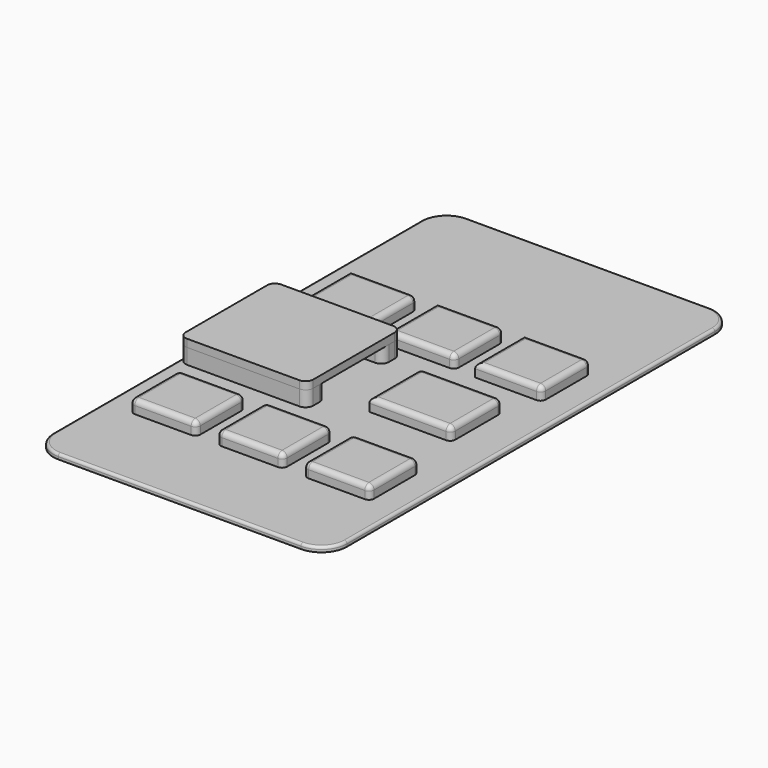
from build123d import *

# Parameters (mm, degrees)
F0_W      = 57.5
F0_H      = 100
F1_DEPTH  = 1
F3_DEPTH  = 2.5
F4_R      = 1
F4_2_R    = 1
F4_3_R    = 1
F4_4_R    = 1
F4_5_R    = 1
F4_6_R    = 1
F4_7_R    = 1
F4_8_R    = 1
F5_R      = 5
F6_R      = 0.5
F7_DEPTH  = 25
F9_DEPTH  = 3
F11_DEPTH = 1.5


with BuildPart() as f1:
    # F0 (on Top) → F1 (new body)
    with BuildSketch(Plane.XY):
        Rectangle(F0_W, F0_H)
    extrude(amount=F1_DEPTH)

    # F5
    f5_edges = [f1.edges().sort_by_distance(p)[0] for p in [
        (-28.75, 50, 0.5),
        (28.75, 50, 0.5),
        (28.75, -50, 0.5),
        (-28.75, -50, 0.5),
    ]]
    fillet(f5_edges, radius=F5_R)

    # F6
    f6_edges = [f1.edges().sort_by_distance(p)[0] for p in [
        (0, -50, 1),
        (-27.285534, -48.535534, 1),
        (27.285534, -48.535534, 1),
        (-28.75, 0, 1),
        (28.75, 0, 1),
        (-27.285534, 48.535534, 1),
        (27.285534, 48.535534, 1),
        (0, 50, 1),
    ]]
    fillet(f6_edges, radius=F6_R)

    # F2 (on face) → F7 (cut)
    with BuildSketch(Plane.XY.offset(1)):
        with BuildLine():
            Line((-22.75, -9.5), (-8.75, -9.5))
            ThreePointArc((-8.75, -9.5), (-8.0428932188, -9.2071067812), (-7.75, -8.5))
            Line((-7.75, -8.5), (-7.75, 2))
            ThreePointArc((-7.75, 2), (-8.0428932188, 2.7071067812), (-8.75, 3))
            Line((-8.75, 3), (-22.75, 3))
            ThreePointArc((-22.75, 3), (-23.4571067812, 2.7071067812), (-23.75, 2))
            Line((-23.75, 2), (-23.75, -8.5))
            ThreePointArc((-23.75, -8.5), (-23.4571067812, -9.2071067812), (-22.75, -9.5))
        make_face()
        with BuildLine():
            Line((-23.75, 9.5), (-11.75, 9.5))
            ThreePointArc((-11.75, 9.5), (-11.0428932188, 9.7928932188), (-10.75, 10.5))
            Line((-10.75, 10.5), (-10.75, 20.5))
            ThreePointArc((-10.75, 20.5), (-11.0428932188, 21.2071067812), (-11.75, 21.5))
            Line((-11.75, 21.5), (-23.75, 21.5))
            Line((-23.75, 21.5), (-23.75, 9.5))
        make_face()
        with BuildLine():
            Line((-22.75, -32.5), (-11.75, -32.5))
            ThreePointArc((-11.75, -32.5), (-11.0428932188, -32.2071067812), (-10.75, -31.5))
            Line((-10.75, -31.5), (-10.75, -21.5))
            ThreePointArc((-10.75, -21.5), (-11.0428932188, -20.7928932188), (-11.75, -20.5))
            Line((-11.75, -20.5), (-22.75, -20.5))
            ThreePointArc((-22.75, -20.5), (-23.4571067812, -20.7928932188), (-23.75, -21.5))
            Line((-23.75, -21.5), (-23.75, -31.5))
            ThreePointArc((-23.75, -31.5), (-23.4571067812, -32.2071067812), (-22.75, -32.5))
        make_face()
        with BuildLine():
            ThreePointArc((5.25, 9.5), (5.9571067812, 9.7928932188), (6.25, 10.5))
            Line((6.25, 10.5), (6.25, 20.5))
            ThreePointArc((6.25, 20.5), (5.9571067812, 21.2071067812), (5.25, 21.5))
            Line((5.25, 21.5), (-6.75, 21.5))
            Line((-6.75, 21.5), (-6.75, 9.5))
            Line((-6.75, 9.5), (5.25, 9.5))
        make_face()
        with BuildLine():
            ThreePointArc((22.25, 9.5), (22.9571067812, 9.7928932188), (23.25, 10.5))
            Line((23.25, 10.5), (23.25, 20.5))
            ThreePointArc((23.25, 20.5), (22.9571067812, 21.2071067812), (22.25, 21.5))
            Line((22.25, 21.5), (10.25, 21.5))
            Line((10.25, 21.5), (10.25, 9.5))
            Line((10.25, 9.5), (22.25, 9.5))
        make_face()
        with BuildLine():
            Line((-6.75, -21.5), (-6.75, -31.5))
            ThreePointArc((-6.75, -31.5), (-6.4571067812, -32.2071067812), (-5.75, -32.5))
            Line((-5.75, -32.5), (5.25, -32.5))
            ThreePointArc((5.25, -32.5), (5.9571067812, -32.2071067812), (6.25, -31.5))
            Line((6.25, -31.5), (6.25, -21.5))
            ThreePointArc((6.25, -21.5), (5.9571067812, -20.7928932188), (5.25, -20.5))
            Line((5.25, -20.5), (-5.75, -20.5))
            ThreePointArc((-5.75, -20.5), (-6.4571067812, -20.7928932188), (-6.75, -21.5))
        make_face()
        with BuildLine():
            Line((10.25, -21.5), (10.25, -31.5))
            ThreePointArc((10.25, -31.5), (10.5428932188, -32.2071067812), (11.25, -32.5))
            Line((11.25, -32.5), (22.25, -32.5))
            ThreePointArc((22.25, -32.5), (22.9571067812, -32.2071067812), (23.25, -31.5))
            Line((23.25, -31.5), (23.25, -21.5))
            ThreePointArc((23.25, -21.5), (22.9571067812, -20.7928932188), (22.25, -20.5))
            Line((22.25, -20.5), (11.25, -20.5))
            ThreePointArc((11.25, -20.5), (10.5428932188, -20.7928932188), (10.25, -21.5))
        make_face()
        with BuildLine():
            Line((4.75, 2), (4.75, -9.5))
            Line((4.75, -9.5), (19.75, -9.5))
            ThreePointArc((19.75, -9.5), (20.4571067812, -9.2071067812), (20.75, -8.5))
            Line((20.75, -8.5), (20.75, 2))
            ThreePointArc((20.75, 2), (20.4571067812, 2.7071067812), (19.75, 3))
            Line((19.75, 3), (5.75, 3))
            ThreePointArc((5.75, 3), (5.0428932188, 2.7071067812), (4.75, 2))
        make_face()
    extrude(amount=-F7_DEPTH, mode=Mode.SUBTRACT)


with BuildPart() as f3:
    # F2 (on face) → F3 (new body)
    with BuildSketch(Plane.XY.offset(1)):
        with BuildLine():
            Line((-22.75, -9.5), (-8.75, -9.5))
            ThreePointArc((-8.75, -9.5), (-8.0428932188, -9.2071067812), (-7.75, -8.5))
            Line((-7.75, -8.5), (-7.75, 2))
            ThreePointArc((-7.75, 2), (-8.0428932188, 2.7071067812), (-8.75, 3))
            Line((-8.75, 3), (-22.75, 3))
            ThreePointArc((-22.75, 3), (-23.4571067812, 2.7071067812), (-23.75, 2))
            Line((-23.75, 2), (-23.75, -8.5))
            ThreePointArc((-23.75, -8.5), (-23.4571067812, -9.2071067812), (-22.75, -9.5))
        make_face()
    extrude(amount=F3_DEPTH)

    # F4#4
    f4_4_edges = [f3.edges().sort_by_distance(p)[0] for p in [
        (-15.75, -9.5, 3.5),
        (-8.042893, -9.207107, 3.5),
        (-7.75, -3.25, 3.5),
        (-8.042893, 2.707107, 3.5),
        (-15.75, 3, 3.5),
        (-23.457107, 2.707107, 3.5),
        (-23.75, -3.25, 3.5),
        (-23.457107, -9.207107, 3.5),
    ]]
    fillet(f4_4_edges, radius=F4_4_R)


with BuildPart() as f3b:
    # F2 (on face) → F3, piece 2 (new body)
    with BuildSketch(Plane.XY.offset(1)):
        with BuildLine():
            Line((-23.75, 9.5), (-11.75, 9.5))
            ThreePointArc((-11.75, 9.5), (-11.0428932188, 9.7928932188), (-10.75, 10.5))
            Line((-10.75, 10.5), (-10.75, 20.5))
            ThreePointArc((-10.75, 20.5), (-11.0428932188, 21.2071067812), (-11.75, 21.5))
            Line((-11.75, 21.5), (-23.75, 21.5))
            Line((-23.75, 21.5), (-23.75, 9.5))
        make_face()
    extrude(amount=F3_DEPTH)

    # F4
    f4_edges = [f3b.edges().sort_by_distance(p)[0] for p in [
        (-17.75, 9.5, 3.5),
        (-11.042893, 9.792893, 3.5),
        (-10.75, 15.5, 3.5),
        (-11.042893, 21.207107, 3.5),
        (-17.75, 21.5, 3.5),
        (-23.75, 15.5, 3.5),
    ]]
    fillet(f4_edges, radius=F4_R)


with BuildPart() as f3c:
    # F2 (on face) → F3, piece 3 (new body)
    with BuildSketch(Plane.XY.offset(1)):
        with BuildLine():
            Line((-22.75, -32.5), (-11.75, -32.5))
            ThreePointArc((-11.75, -32.5), (-11.0428932188, -32.2071067812), (-10.75, -31.5))
            Line((-10.75, -31.5), (-10.75, -21.5))
            ThreePointArc((-10.75, -21.5), (-11.0428932188, -20.7928932188), (-11.75, -20.5))
            Line((-11.75, -20.5), (-22.75, -20.5))
            ThreePointArc((-22.75, -20.5), (-23.4571067812, -20.7928932188), (-23.75, -21.5))
            Line((-23.75, -21.5), (-23.75, -31.5))
            ThreePointArc((-23.75, -31.5), (-23.4571067812, -32.2071067812), (-22.75, -32.5))
        make_face()
    extrude(amount=F3_DEPTH)

    # F4#8
    f4_8_edges = [f3c.edges().sort_by_distance(p)[0] for p in [
        (-17.25, -32.5, 3.5),
        (-11.042893, -32.207107, 3.5),
        (-10.75, -26.5, 3.5),
        (-11.042893, -20.792893, 3.5),
        (-17.25, -20.5, 3.5),
        (-23.457107, -20.792893, 3.5),
        (-23.75, -26.5, 3.5),
        (-23.457107, -32.207107, 3.5),
    ]]
    fillet(f4_8_edges, radius=F4_8_R)


with BuildPart() as f3d:
    # F2 (on face) → F3, piece 4 (new body)
    with BuildSketch(Plane.XY.offset(1)):
        with BuildLine():
            ThreePointArc((5.25, 9.5), (5.9571067812, 9.7928932188), (6.25, 10.5))
            Line((6.25, 10.5), (6.25, 20.5))
            ThreePointArc((6.25, 20.5), (5.9571067812, 21.2071067812), (5.25, 21.5))
            Line((5.25, 21.5), (-6.75, 21.5))
            Line((-6.75, 21.5), (-6.75, 9.5))
            Line((-6.75, 9.5), (5.25, 9.5))
        make_face()
    extrude(amount=F3_DEPTH)

    # F4#2
    f4_2_edges = [f3d.edges().sort_by_distance(p)[0] for p in [
        (5.957107, 9.792893, 3.5),
        (6.25, 15.5, 3.5),
        (5.957107, 21.207107, 3.5),
        (-0.75, 21.5, 3.5),
        (-6.75, 15.5, 3.5),
        (-0.75, 9.5, 3.5),
    ]]
    fillet(f4_2_edges, radius=F4_2_R)


with BuildPart() as f3e:
    # F2 (on face) → F3, piece 5 (new body)
    with BuildSketch(Plane.XY.offset(1)):
        with BuildLine():
            ThreePointArc((22.25, 9.5), (22.9571067812, 9.7928932188), (23.25, 10.5))
            Line((23.25, 10.5), (23.25, 20.5))
            ThreePointArc((23.25, 20.5), (22.9571067812, 21.2071067812), (22.25, 21.5))
            Line((22.25, 21.5), (10.25, 21.5))
            Line((10.25, 21.5), (10.25, 9.5))
            Line((10.25, 9.5), (22.25, 9.5))
        make_face()
    extrude(amount=F3_DEPTH)

    # F4#3
    f4_3_edges = [f3e.edges().sort_by_distance(p)[0] for p in [
        (22.957107, 9.792893, 3.5),
        (23.25, 15.5, 3.5),
        (22.957107, 21.207107, 3.5),
        (16.25, 21.5, 3.5),
        (10.25, 15.5, 3.5),
        (16.25, 9.5, 3.5),
    ]]
    fillet(f4_3_edges, radius=F4_3_R)


with BuildPart() as f3f:
    # F2 (on face) → F3, piece 6 (new body)
    with BuildSketch(Plane.XY.offset(1)):
        with BuildLine():
            Line((-6.75, -21.5), (-6.75, -31.5))
            ThreePointArc((-6.75, -31.5), (-6.4571067812, -32.2071067812), (-5.75, -32.5))
            Line((-5.75, -32.5), (5.25, -32.5))
            ThreePointArc((5.25, -32.5), (5.9571067812, -32.2071067812), (6.25, -31.5))
            Line((6.25, -31.5), (6.25, -21.5))
            ThreePointArc((6.25, -21.5), (5.9571067812, -20.7928932188), (5.25, -20.5))
            Line((5.25, -20.5), (-5.75, -20.5))
            ThreePointArc((-5.75, -20.5), (-6.4571067812, -20.7928932188), (-6.75, -21.5))
        make_face()
    extrude(amount=F3_DEPTH)

    # F4#7
    f4_7_edges = [f3f.edges().sort_by_distance(p)[0] for p in [
        (-6.75, -26.5, 3.5),
        (-6.457107, -32.207107, 3.5),
        (-0.25, -32.5, 3.5),
        (5.957107, -32.207107, 3.5),
        (6.25, -26.5, 3.5),
        (5.957107, -20.792893, 3.5),
        (-0.25, -20.5, 3.5),
        (-6.457107, -20.792893, 3.5),
    ]]
    fillet(f4_7_edges, radius=F4_7_R)


with BuildPart() as f3g:
    # F2 (on face) → F3, piece 7 (new body)
    with BuildSketch(Plane.XY.offset(1)):
        with BuildLine():
            Line((10.25, -21.5), (10.25, -31.5))
            ThreePointArc((10.25, -31.5), (10.5428932188, -32.2071067812), (11.25, -32.5))
            Line((11.25, -32.5), (22.25, -32.5))
            ThreePointArc((22.25, -32.5), (22.9571067812, -32.2071067812), (23.25, -31.5))
            Line((23.25, -31.5), (23.25, -21.5))
            ThreePointArc((23.25, -21.5), (22.9571067812, -20.7928932188), (22.25, -20.5))
            Line((22.25, -20.5), (11.25, -20.5))
            ThreePointArc((11.25, -20.5), (10.5428932188, -20.7928932188), (10.25, -21.5))
        make_face()
    extrude(amount=F3_DEPTH)

    # F4#6
    f4_6_edges = [f3g.edges().sort_by_distance(p)[0] for p in [
        (10.25, -26.5, 3.5),
        (10.542893, -32.207107, 3.5),
        (16.75, -32.5, 3.5),
        (22.957107, -32.207107, 3.5),
        (23.25, -26.5, 3.5),
        (22.957107, -20.792893, 3.5),
        (16.75, -20.5, 3.5),
        (10.542893, -20.792893, 3.5),
    ]]
    fillet(f4_6_edges, radius=F4_6_R)


with BuildPart() as f3h:
    # F2 (on face) → F3, piece 8 (new body)
    with BuildSketch(Plane.XY.offset(1)):
        with BuildLine():
            Line((4.75, 2), (4.75, -9.5))
            Line((4.75, -9.5), (19.75, -9.5))
            ThreePointArc((19.75, -9.5), (20.4571067812, -9.2071067812), (20.75, -8.5))
            Line((20.75, -8.5), (20.75, 2))
            ThreePointArc((20.75, 2), (20.4571067812, 2.7071067812), (19.75, 3))
            Line((19.75, 3), (5.75, 3))
            ThreePointArc((5.75, 3), (5.0428932188, 2.7071067812), (4.75, 2))
        make_face()
    extrude(amount=F3_DEPTH)

    # F4#5
    f4_5_edges = [f3h.edges().sort_by_distance(p)[0] for p in [
        (12.75, 3, 3.5),
        (5.042893, 2.707107, 3.5),
        (4.75, -3.75, 3.5),
        (12.25, -9.5, 3.5),
        (20.457107, -9.207107, 3.5),
        (20.75, -3.25, 3.5),
        (20.457107, 2.707107, 3.5),
    ]]
    fillet(f4_5_edges, radius=F4_5_R)


with BuildPart() as f9:
    # F8 (on face) → F9 (new body)
    with BuildSketch(Plane.XY.offset(1)):
        with BuildLine():
            ThreePointArc((-3.25, -11.75), (-3.6893398282, -10.6893398282), (-4.75, -10.25))
            Line((-4.75, -10.25), (-23, -10.25))
            ThreePointArc((-23, -10.25), (-24.0606601718, -9.8106601718), (-24.5, -8.75))
            Line((-24.5, -8.75), (-24.5, 2.25))
            ThreePointArc((-24.5, 2.25), (-24.0606601718, 3.3106601718), (-23, 3.75))
            Line((-23, 3.75), (-4.75, 3.75))
            ThreePointArc((-4.75, 3.75), (-3.6893398282, 4.1893398282), (-3.25, 5.25))
            Line((-3.25, 5.25), (-3.25, 6.65))
            ThreePointArc((-3.25, 6.65), (-3.7186291501, 7.7813708499), (-4.85, 8.25))
            Line((-4.85, 8.25), (-26.75, 8.25))
            ThreePointArc((-26.75, 8.25), (-27.8106601718, 7.8106601718), (-28.25, 6.75))
            Line((-28.25, 6.75), (-28.25, -13.25))
            ThreePointArc((-28.25, -13.25), (-27.8106601718, -14.3106601718), (-26.75, -14.75))
            Line((-26.75, -14.75), (-4.75, -14.75))
            ThreePointArc((-4.75, -14.75), (-3.6893398282, -14.3106601718), (-3.25, -13.25))
            Line((-3.25, -13.25), (-3.25, -11.75))
        make_face()
    extrude(amount=F9_DEPTH)


with BuildPart() as f11:
    # F10 (on face) → F11 (new body)
    with BuildSketch(Plane.XY.offset(4)):
        with BuildLine():
            ThreePointArc((-3.25, 6.65), (-3.7186291501, 7.7813708499), (-4.85, 8.25))
            Line((-4.85, 8.25), (-26.75, 8.25))
            ThreePointArc((-26.75, 8.25), (-27.8106601718, 7.8106601718), (-28.25, 6.75))
            Line((-28.25, 6.75), (-28.25, -13.25))
            ThreePointArc((-28.25, -13.25), (-27.8106601718, -14.3106601718), (-26.75, -14.75))
            Line((-26.75, -14.75), (-4.75, -14.75))
            ThreePointArc((-4.75, -14.75), (-3.6893398282, -14.3106601718), (-3.25, -13.25))
            Line((-3.25, -13.25), (-3.25, 6.65))
        make_face()
    extrude(amount=F11_DEPTH)


solid = Compound([f1.part, f3.part, f3b.part, f3c.part, f3d.part, f3e.part, f3f.part, f3g.part, f3h.part, f9.part, f11.part])
